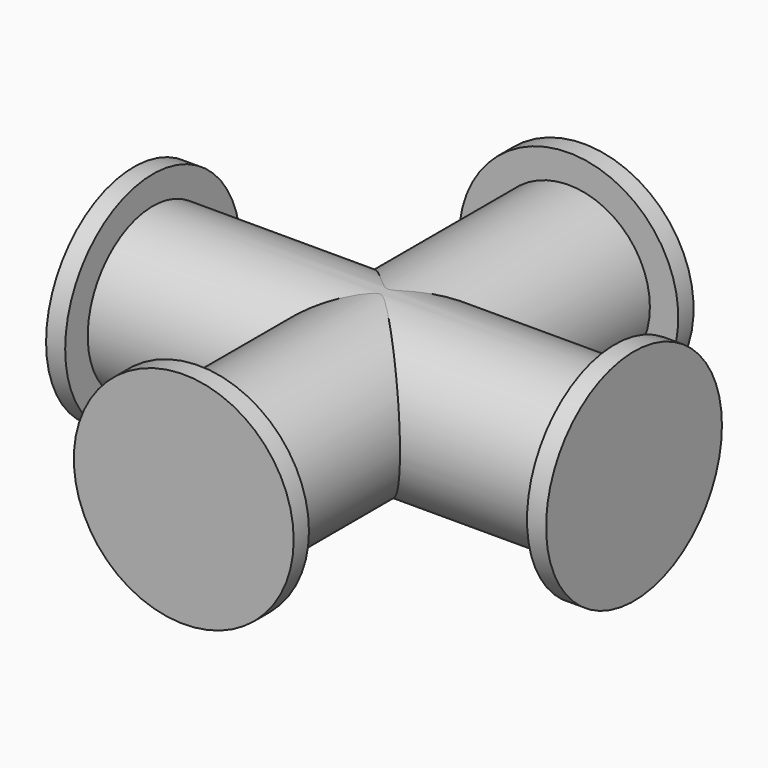
from build123d import *

# Parameters (mm, degrees)
F0_R          = 1.080022686
F1_DEPTH      = 3.0734
F1_DEPTH_BACK = 3.0734
F2_R          = 1.0822492619
F3_DEPTH      = 3.0734
F3_DEPTH_BACK = 3.0734
F4_R          = 1.4624555287
F5_DEPTH      = 0.254
F6_R          = 1.4618158242
F7_DEPTH      = 0.254
F8_R          = 1.4581045409
F9_DEPTH      = 0.254
F10_R         = 1.4573675157
F11_DEPTH     = 0.254


with BuildPart() as f1:
    # F0 (on Front) → F1 (new body, two sides)
    with BuildSketch(Plane.XZ) as f1_sk:
        Circle(F0_R)
    extrude(amount=F1_DEPTH)
    extrude(f1_sk.sketch, amount=-F1_DEPTH_BACK)

    # F2 (on Right) → F3 (join, two sides)
    with BuildSketch(Plane.YZ) as f3_sk:
        Circle(F2_R)
    extrude(amount=F3_DEPTH)
    extrude(f3_sk.sketch, amount=-F3_DEPTH_BACK)

    # F4 (on face) → F5 (join)
    with BuildSketch(Plane.XZ.offset(3.0734)):
        Circle(F4_R)
    extrude(amount=F5_DEPTH)

    # F6 (on face) → F7 (join)
    with BuildSketch(Plane.YZ.offset(3.0734)):
        Circle(F6_R)
    extrude(amount=F7_DEPTH)

    # F8 (on face) → F9 (join)
    with BuildSketch(Plane(origin=(0, 3.0734, 0), x_dir=(-1, 0, 0), z_dir=(0, 1, 0))):
        Circle(F8_R)
    extrude(amount=F9_DEPTH)

    # F10 (on face) → F11 (join)
    with BuildSketch(Plane(origin=(-3.0734, 0, 0), x_dir=(0, -1, 0), z_dir=(-1, 0, 0))):
        Circle(F10_R)
    extrude(amount=F11_DEPTH)


solid = f1.part
